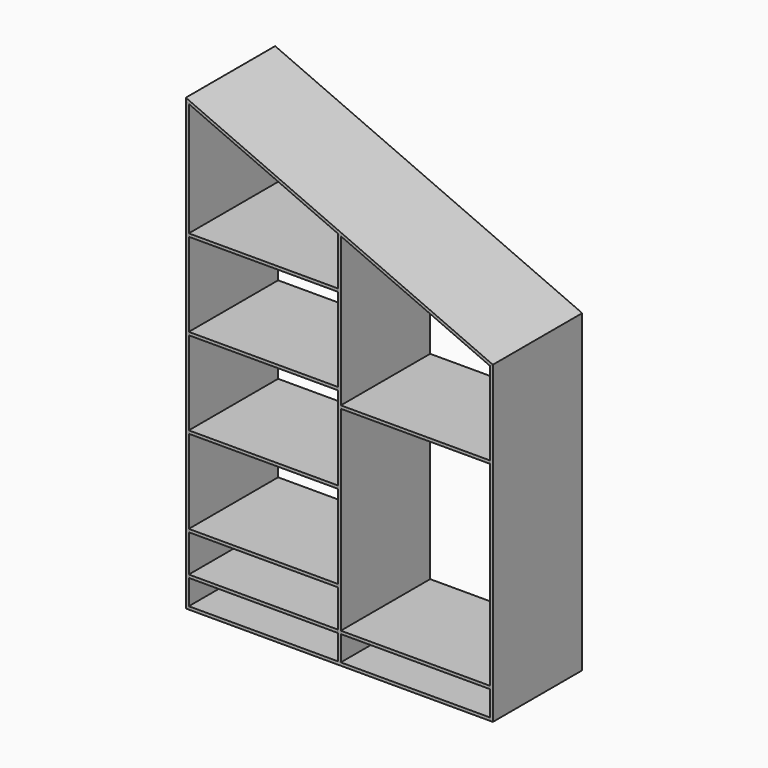
from build123d import *

# Parameters (mm, degrees)
F1_DEPTH = 600
F2_DEPTH = 600
F3_DEPTH = 600
F4_DEPTH = 600
F5_DEPTH = 600
F0_W     = 801
F0_H     = 16
F6_DEPTH = 600


with BuildPart() as f1:
    # F0 (on Front) → F1 (new body)
    with BuildSketch(Plane.XZ):
        Polygon((-21155.8402650225, 25077.389837374), (-21139.8402650225, 25077.389837374), (-21139.8402650225, 25093.389837374), (-21139.8402650225, 25227.389837374), (-21139.8402650225, 25243.389837374), (-21139.8402650225, 25443.389837374), (-21139.8402650225, 25459.389837374), (-21139.8402650225, 25909.389837374), (-21139.8402650225, 25925.389837374), (-21139.8402650225, 26375.389837374), (-21139.8402650225, 26391.389837374), (-21139.8402650225, 26841.389837374), (-21139.8402650225, 26857.389837374), (-21139.8402650225, 27469.716218893), (-21155.8402650225, 27476.7645425729), align=None)
    extrude(amount=F1_DEPTH)


with BuildPart() as f2:
    # F0 (on Front) → F2 (new body)
    with BuildSketch(Plane.XZ):
        Polygon((-19521.8402650225, 26756.9544867634), (-19505.8402650225, 26767.3898373741), (-21155.8402650225, 27494.2482168634), (-21155.8402650225, 27476.7645425729), (-21139.8402650225, 27469.716218893), (-20338.8402650225, 27116.8595146682), (-20322.8402650225, 27109.8111909883), align=None)
    extrude(amount=F2_DEPTH)


with BuildPart() as f3:
    # F0 (on Front) → F3 (new body)
    with BuildSketch(Plane.XZ):
        Polygon((-19521.8402650225, 25077.389837374), (-19505.8402650225, 25077.389837374), (-19505.8402650225, 26767.3898373741), (-19521.8402650225, 26756.9544867634), (-19521.8402650225, 26309.389837374), (-19521.8402650225, 26293.389837374), (-19521.8402650225, 25243.389837374), (-19521.8402650225, 25227.389837374), (-19521.8402650225, 25093.389837374), align=None)
    extrude(amount=F3_DEPTH)


with BuildPart() as f4:
    # F0 (on Front) → F4 (new body)
    with BuildSketch(Plane.XZ):
        Polygon((-21139.8402650225, 25077.389837374), (-19521.8402650225, 25077.389837374), (-19521.8402650225, 25093.389837374), (-20322.8402650225, 25093.389837374), (-20338.8402650225, 25093.389837374), (-21139.8402650225, 25093.389837374), align=None)
    extrude(amount=F4_DEPTH)


with BuildPart() as f5:
    # F0 (on Front) → F5 (new body)
    with BuildSketch(Plane.XZ):
        Polygon((-20338.8402650225, 25093.389837374), (-20322.8402650225, 25093.389837374), (-20322.8402650225, 25227.389837374), (-20322.8402650225, 25243.389837374), (-20322.8402650225, 26293.389837374), (-20322.8402650225, 26309.389837374), (-20322.8402650225, 27109.8111909883), (-20338.8402650225, 27116.8595146682), (-20338.8402650225, 26857.389837374), (-20338.8402650225, 26841.389837374), (-20338.8402650225, 26391.389837374), (-20338.8402650225, 26375.389837374), (-20338.8402650225, 25925.389837374), (-20338.8402650225, 25909.389837374), (-20338.8402650225, 25459.389837374), (-20338.8402650225, 25443.389837374), (-20338.8402650225, 25243.389837374), (-20338.8402650225, 25227.389837374), align=None)
    extrude(amount=F5_DEPTH)


with BuildPart() as f6:
    # F0 (on Front) → F6 (new body)
    with BuildSketch(Plane.XZ):
        with Locations((-20739.3402650225, 25235.389837374)):
            Rectangle(F0_W, F0_H)
    extrude(amount=F6_DEPTH)


with BuildPart() as f6b:
    # F0 (on Front) → F6, piece 2 (new body)
    with BuildSketch(Plane.XZ):
        with Locations((-19922.3402650225, 25235.389837374)):
            Rectangle(F0_W, F0_H)
    extrude(amount=F6_DEPTH)


with BuildPart() as f6c:
    # F0 (on Front) → F6, piece 3 (new body)
    with BuildSketch(Plane.XZ):
        with Locations((-20739.3402650225, 25451.389837374)):
            Rectangle(F0_W, F0_H)
    extrude(amount=F6_DEPTH)


with BuildPart() as f6d:
    # F0 (on Front) → F6, piece 4 (new body)
    with BuildSketch(Plane.XZ):
        with Locations((-20739.3402650225, 25917.389837374)):
            Rectangle(F0_W, F0_H)
    extrude(amount=F6_DEPTH)


with BuildPart() as f6e:
    # F0 (on Front) → F6, piece 5 (new body)
    with BuildSketch(Plane.XZ):
        with Locations((-19922.3402650225, 26301.389837374)):
            Rectangle(F0_W, F0_H)
    extrude(amount=F6_DEPTH)


with BuildPart() as f6f:
    # F0 (on Front) → F6, piece 6 (new body)
    with BuildSketch(Plane.XZ):
        with Locations((-20739.3402650225, 26383.389837374)):
            Rectangle(F0_W, F0_H)
    extrude(amount=F6_DEPTH)


with BuildPart() as f6g:
    # F0 (on Front) → F6, piece 7 (new body)
    with BuildSketch(Plane.XZ):
        with Locations((-20739.3402650225, 26849.389837374)):
            Rectangle(F0_W, F0_H)
    extrude(amount=F6_DEPTH)


solid = Compound([f1.part, f2.part, f3.part, f4.part, f5.part, f6.part, f6b.part, f6c.part, f6d.part, f6e.part, f6f.part, f6g.part])
